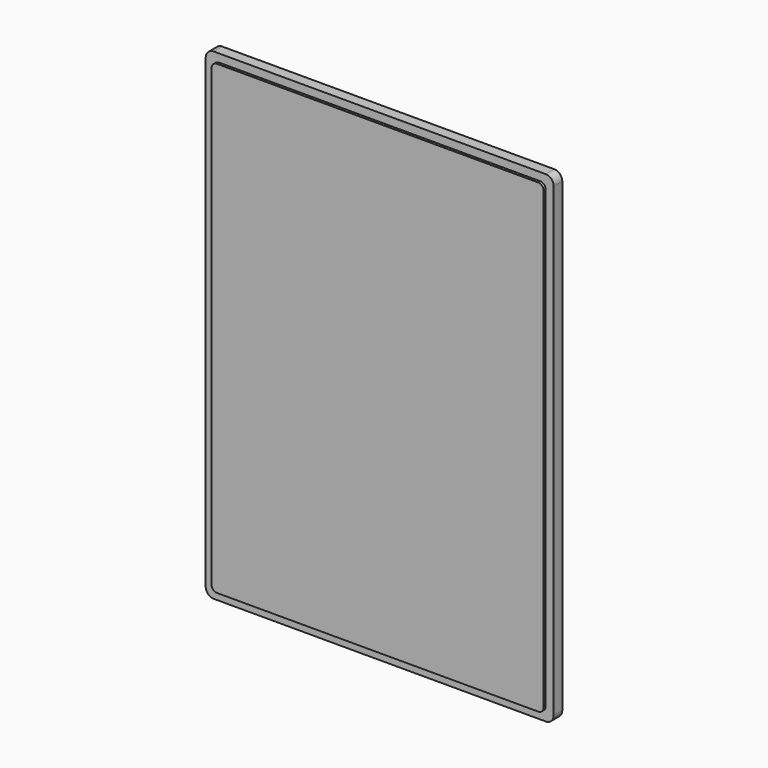
from build123d import *

# Parameters (mm, degrees)
F0_W     = 130
F0_H     = 180
F1_DEPTH = 4
F2_R     = 3
F3_W     = 124
F3_H     = 174
F4_DEPTH = 1
F5_R     = 2


with BuildPart() as f1:
    # F0 (on Front) → F1 (new body)
    with BuildSketch(Plane.XZ):
        with Locations((-17.656866, 35.967222)):
            Rectangle(F0_W, F0_H)
    extrude(amount=F1_DEPTH)

    # F2
    f2_edges = [f1.edges().sort_by_distance(p)[0] for p in [
        (-82.656866, -2, 125.967222),
        (-82.656866, -2, -54.032778),
        (47.343134, -2, -54.032778),
        (47.343134, -2, 125.967222),
    ]]
    fillet(f2_edges, radius=F2_R)

    # F3 (on face) → F4 (join)
    with BuildSketch(Plane.XZ.offset(4)):
        with Locations((-17.656866, 35.967222)):
            Rectangle(F3_W, F3_H)
    extrude(amount=F4_DEPTH)

    # F5
    f5_edges = [f1.edges().sort_by_distance(p)[0] for p in [
        (-79.656866, -4.5, 122.967222),
        (44.343134, -4.5, 122.967222),
        (-79.656866, -4.5, -51.032778),
        (44.343134, -4.5, -51.032778),
    ]]
    fillet(f5_edges, radius=F5_R)


solid = f1.part
